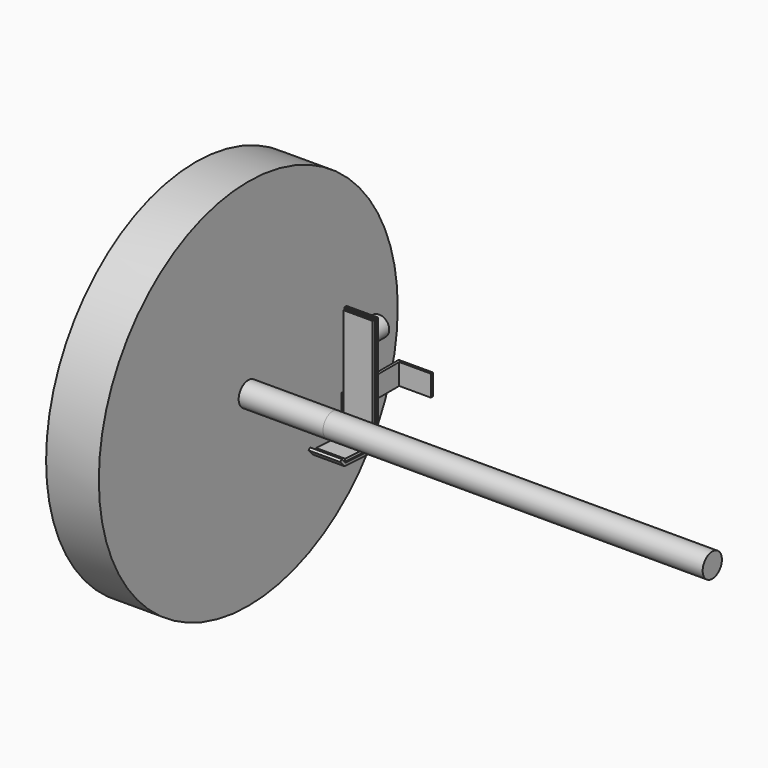
from build123d import *

# Parameters (mm, degrees)
F1_DEPTH       = 38.1
F2_R           = 3.175
F3_R           = 6.35
F4_W           = 85.725
F4_H           = 25.4
F5_DEPTH       = 3.175
F6_W           = 3.175
F6_H           = 25.4
F7_DEPTH       = 38.1
F8_R           = 12.065
F9_DEPTH       = 25.4
F10_W          = 35.052
F10_H          = 129.9604962045
F11_DEPTH      = 3.175
F12_W          = 35.052
F12_H          = 39.7453681439
F13_DEPTH      = 3.175
F14_R          = 14.5
F15_DEPTH      = 101.6
F15_DEPTH_BACK = 457.2
F16_R          = 225
F16_R_2        = 14.5
F17_DEPTH      = 63.5


with BuildPart() as f1:
    # F0 (on Right) → F1 (new body)
    with BuildSketch(Plane.YZ):
        Polygon((-50.7303803655, 2.6586665771), (0, 0), (0, 139.7), (-3.175, 139.7), (-3.175, 3.3457518978), (-49.2508879812, 5.7604868654), (-54.7443645702, 11.861610715), (-57.1038493911, 9.7371210398), align=None)
    extrude(amount=F1_DEPTH)

    # F2
    f2_edges = [f1.edges().sort_by_distance(p)[0] for p in [
        (19.05, -3.175, 3.345752),
    ]]
    fillet(f2_edges, radius=F2_R)

    # F3
    f3_edges = [f1.edges().sort_by_distance(p)[0] for p in [
        (19.05, 0, 0),
    ]]
    fillet(f3_edges, radius=F3_R)

    # F4 (on face) → F5 (join)
    with BuildSketch(Plane(origin=(0, 0, 0), x_dir=(0, -1, 0), z_dir=(-1, 0, 0))):
        with Locations((-39.6875, 35.2008372217)):
            Rectangle(F4_W, F4_H)
    extrude(amount=F5_DEPTH)

    # F6 (on face) → F7 (join)
    with BuildSketch(Plane.YZ):
        with Locations((80.9625, 35.2008372217)):
            Rectangle(F6_W, F6_H)
    extrude(amount=F7_DEPTH)

    # F8 (on face) → F9 (join)
    with BuildSketch(Plane(origin=(0, 0, 0), x_dir=(-1, 0, 0), z_dir=(0, 1, 0))):
        with Locations((-19.05, 114.3)):
            Circle(F8_R)
    extrude(amount=F9_DEPTH)


with BuildPart() as f11:
    # F10 (on face) → F11 (new body)
    with BuildSketch(Plane.XZ.offset(3.175)):
        with Locations((19.05, 73.1957518978)):
            Rectangle(F10_W, F10_H)
    extrude(amount=F11_DEPTH)


with BuildPart() as f13:
    # F12 (on face) → F13 (new body)
    with BuildSketch(Plane(origin=(0, 0.1661666611, 3.1706487728), x_dir=(1, 0, 0), z_dir=(0, 0.0523359562, 0.9986295348))):
        with Locations((19.05, -28.0881878675)):
            Rectangle(F12_W, F12_H)
    extrude(amount=F13_DEPTH)


with BuildPart() as f15:
    # F14 (on Right) → F15 (new body, two sides)
    with BuildSketch(Plane.YZ) as f15_sk:
        with Locations((-20.85, 21.9713156121)):
            Circle(F14_R)
    extrude(amount=-F15_DEPTH)
    extrude(f15_sk.sketch, amount=F15_DEPTH_BACK)


with BuildPart() as f17:
    # F16 (on face) → F17 (new body)
    with BuildSketch(Plane(origin=(-101.6, 0, 0), x_dir=(0, -1, 0), z_dir=(-1, 0, 0))):
        with Locations((20.85, 21.9713156121)):
            Circle(F16_R)
        with Locations((20.85, 21.9713156121)):
            Circle(F16_R_2, mode=Mode.SUBTRACT)
    extrude(amount=F17_DEPTH)


solid = Compound([f1.part, f11.part, f13.part, f15.part, f17.part])
